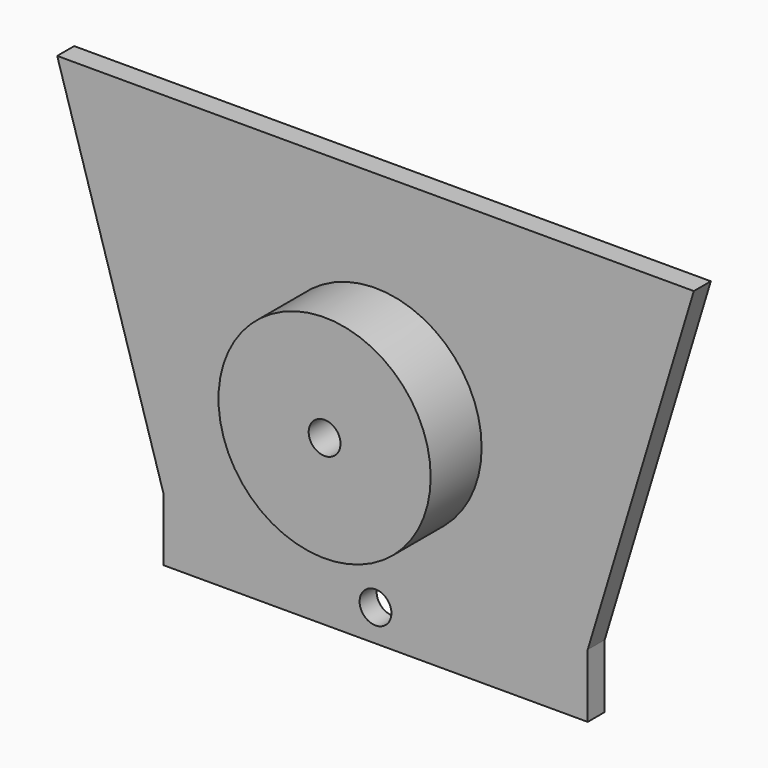
from build123d import *

# Parameters (mm, degrees)
F0_R     = 1.905
F0_R_2   = 12.7
F1_DEPTH = 2.54
F2_DEPTH = 10.16


with BuildPart() as f1:
    # F0 (on Front) → F1 (new body)
    with BuildSketch(Plane.XZ):
        Polygon((38.1, 24.765), (25.4, 24.765), (-25.4, 24.765), (-38.1, 24.765), (-25.4, -17.145), (-25.4, -24.765), (25.4, -24.765), (25.4, -17.145), align=None)
        with Locations((0, -20.955)):
            Circle(F0_R, mode=Mode.SUBTRACT)
        Circle(F0_R_2, mode=Mode.SUBTRACT)
    extrude(amount=F1_DEPTH)

    # F0 (on Front) → F2 (join)
    with BuildSketch(Plane.XZ):
        Circle(F0_R_2)
        Circle(F0_R, mode=Mode.SUBTRACT)
    extrude(amount=F2_DEPTH)


solid = f1.part
